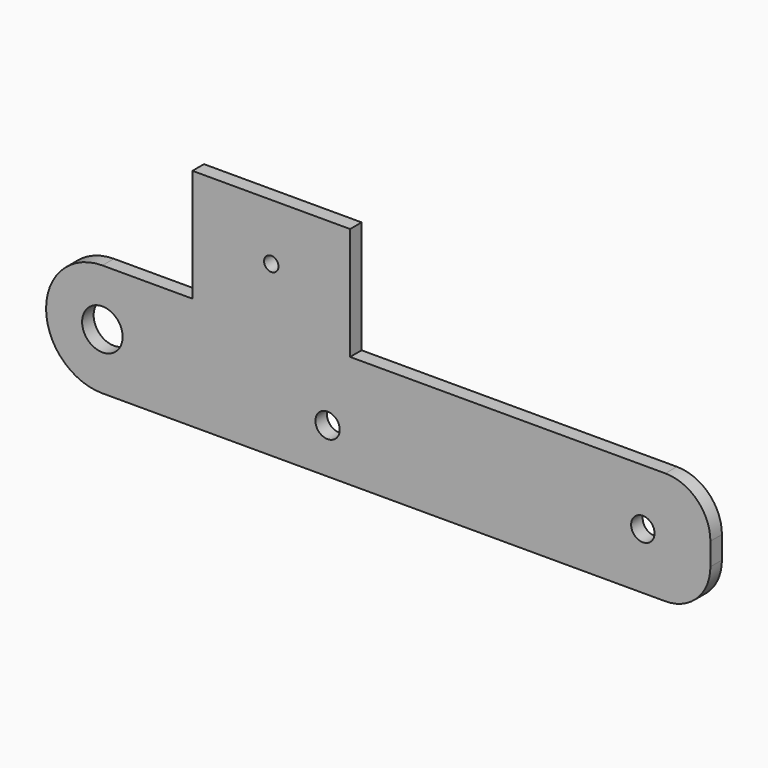
from build123d import *

# Parameters (mm, degrees)
F0_R     = 2.7
F0_R_2   = 4.5
F0_R_3   = 2.6
F0_R_4   = 1.6
F1_DEPTH = 3.2
F2_R     = 10


with BuildPart() as f1:
    # F0 (on Front) → F1 (new body)
    with BuildSketch(Plane.XZ):
        with BuildLine():
            Line((75, -12.5), (75, 12.5))
            Line((75, 12.5), (-5, 12.5))
            Line((-5, 12.5), (-5, 37.5))
            Line((-5, 37.5), (-40, 37.5))
            Line((-40, 37.5), (-40, 12.5))
            Line((-40, 12.5), (-60, 12.5))
            ThreePointArc((-60, 12.5), (-72.5, 0), (-60, -12.5))
            Line((-60, -12.5), (75, -12.5))
        make_face()
        with Locations((-10, -2.5)):
            Circle(F0_R, mode=Mode.SUBTRACT)
        with Locations((-60, 0)):
            Circle(F0_R_2, mode=Mode.SUBTRACT)
        with Locations((60, 0)):
            Circle(F0_R_3, mode=Mode.SUBTRACT)
        with Locations((-22.5, 25)):
            Circle(F0_R_4, mode=Mode.SUBTRACT)
    extrude(amount=F1_DEPTH)

    # F2
    f2_edges = [f1.edges().sort_by_distance(p)[0] for p in [
        (75, -1.6, 12.5),
        (75, -1.6, -12.5),
    ]]
    fillet(f2_edges, radius=F2_R)


solid = f1.part
